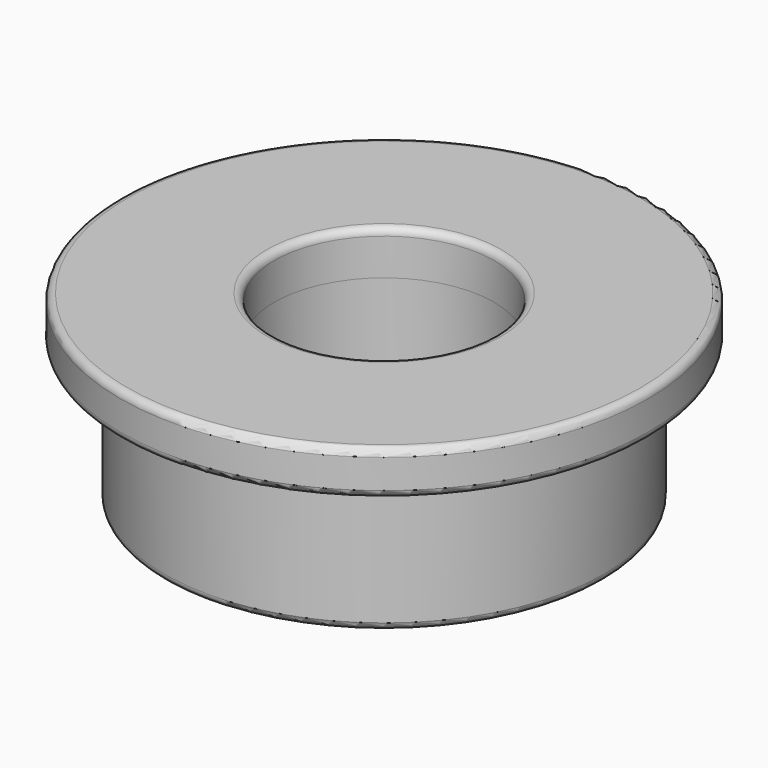
from build123d import *

# Parameters (mm, degrees)
F0_R     = 3.6
F0_R_2   = 3
F0_R_3   = 1.5
F1_DEPTH = 0.6
F2_DEPTH = 1.9
F3_R     = 0.1


with BuildPart() as f1:
    # F0 (on Top) → F1 (new body)
    with BuildSketch(Plane.XY):
        Circle(F0_R)
        Circle(F0_R_2, mode=Mode.SUBTRACT)
        Circle(F0_R_2)
        Circle(F0_R_3, mode=Mode.SUBTRACT)
    extrude(amount=F1_DEPTH)

    # F0 (on Top) → F2 (join)
    with BuildSketch(Plane.XY):
        Circle(F0_R_2)
        Circle(F0_R_3, mode=Mode.SUBTRACT)
    extrude(amount=-F2_DEPTH)

    # F3
    f3_edges = [f1.edges().sort_by_distance(p)[0] for p in [
        (-3, 0, -1.9),
        (-1.5, 0, -1.9),
        (-3, 0, 0),
        (-3.6, 0, 0),
        (-3.6, 0, 0.6),
        (-1.5, 0, 0.6),
    ]]
    fillet(f3_edges, radius=F3_R)


solid = f1.part
